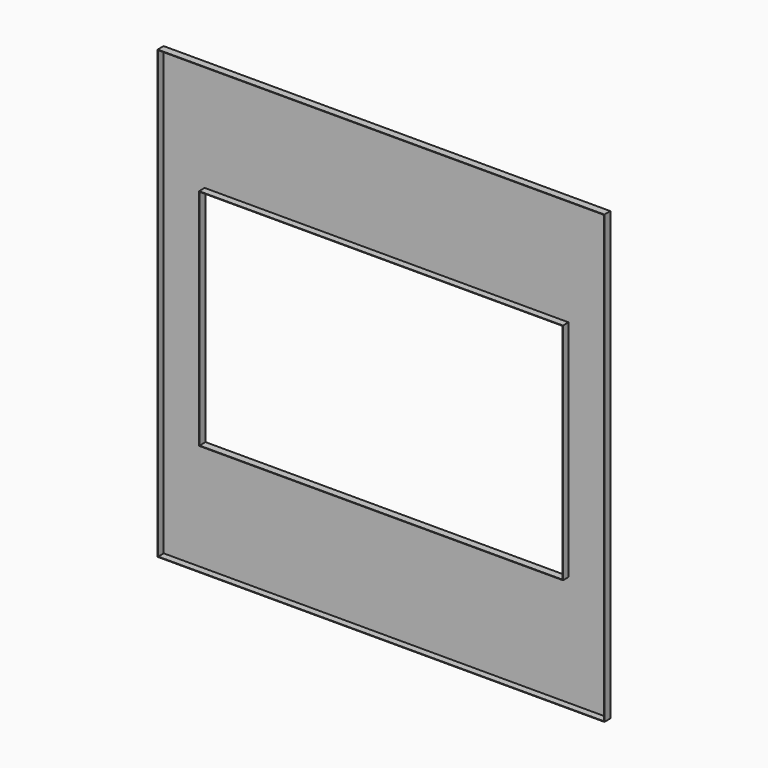
from build123d import *

# Parameters (mm, degrees)
F0_W     = 2438.4
F0_H     = 2438.4
F0_W_2   = 1981.2
F0_H_2   = 1219.2
F1_DEPTH = 40.64
F2_T     = -2.54


with BuildPart() as f1:
    # F0 (on Front) → F1 (new body)
    with BuildSketch(Plane.XZ):
        Rectangle(F0_W, F0_H)
        Rectangle(F0_W_2, F0_H_2, mode=Mode.SUBTRACT)
    extrude(amount=F1_DEPTH)

    # F2
    f2_openings = [f1.faces().sort_by_distance(p)[0] for p in [
        (0, -40.64, 1184.715816),
    ]]
    offset(amount=F2_T, openings=f2_openings, kind=Kind.INTERSECTION)


solid = f1.part
